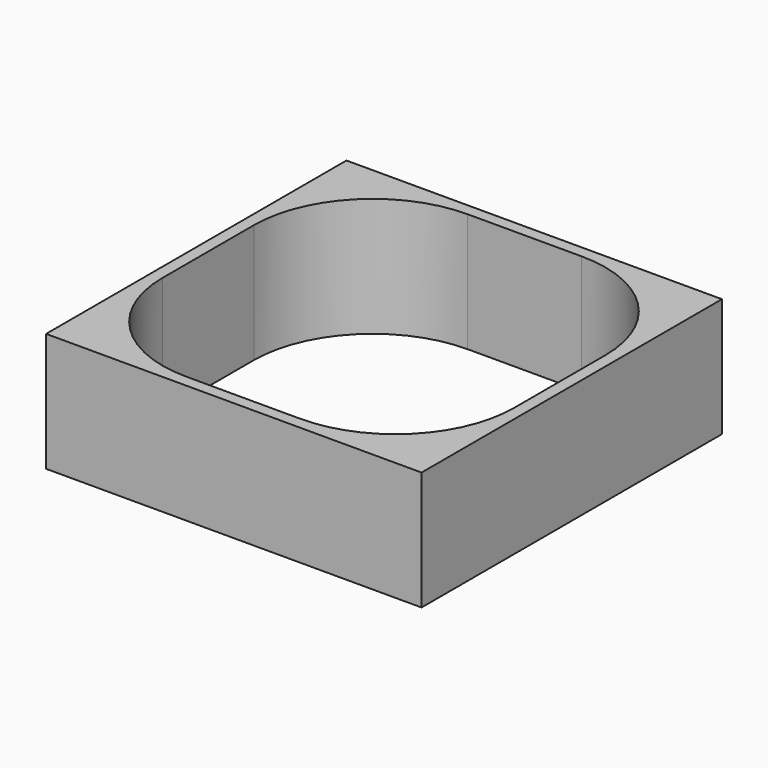
from build123d import *

# Parameters (mm, degrees)
F0_W     = 316
F0_H     = 316
F1_DEPTH = 50


with BuildPart() as f1:
    # F0 (on Top) → F1 (new body, symmetric)
    with BuildSketch(Plane.XY):
        Rectangle(F0_W, F0_H)
        with BuildLine():
            ThreePointArc((-148, 48), (-118.710678, 118.710678), (-48, 148))
            Line((-48, 148), (48, 148))
            ThreePointArc((48, 148), (118.710678, 118.710678), (148, 48))
            Line((148, 48), (148, -48))
            ThreePointArc((148, -48), (118.710678, -118.710678), (48, -148))
            Line((48, -148), (-48, -148))
            ThreePointArc((-48, -148), (-118.710678, -118.710678), (-148, -48))
            Line((-148, -48), (-148, 48))
        make_face(mode=Mode.SUBTRACT)
    extrude(amount=F1_DEPTH, both=True)


solid = f1.part
